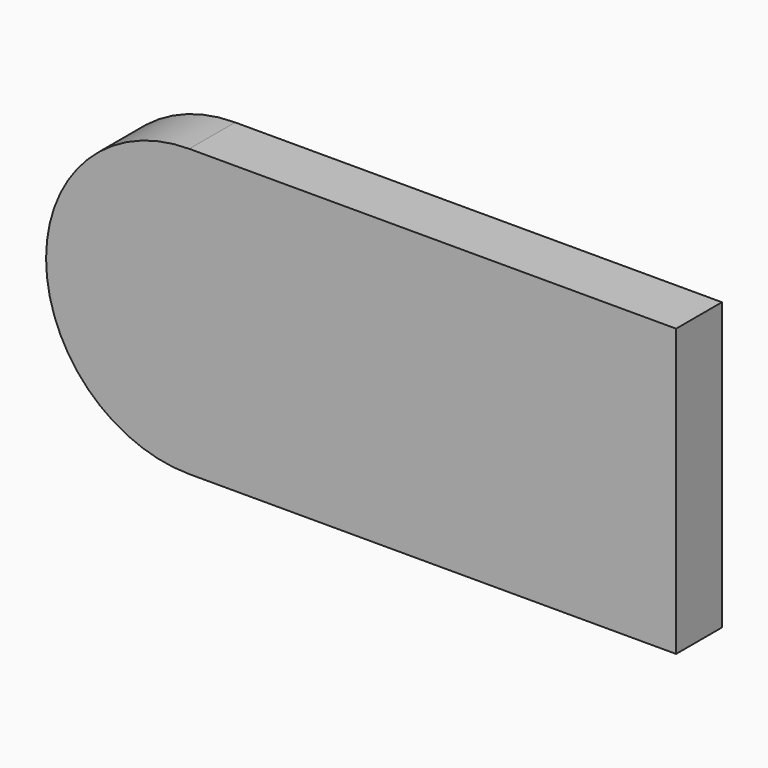
from build123d import *

# Parameters (mm, degrees)
F1_DEPTH = 5


with BuildPart() as f1:
    # F0 (on Front) → F1 (new body)
    with BuildSketch(Plane.XZ):
        with BuildLine():
            Line((0, 0), (-42.5, 0))
            ThreePointArc((-42.5, 0), (-51.338835, -3.661165), (-55, -12.5))
            ThreePointArc((-55, -12.5), (-51.338835, -21.338835), (-42.5, -25))
            Line((-42.5, -25), (0, -25))
            Line((0, -25), (0, 0))
        make_face()
    extrude(amount=F1_DEPTH)


solid = f1.part
